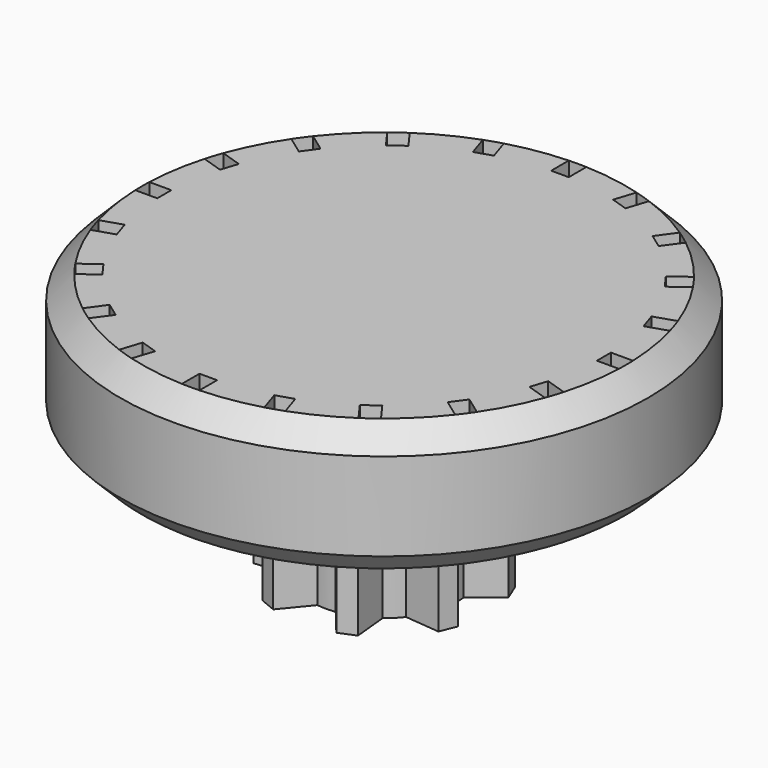
from build123d import *

# Parameters (mm, degrees)
F0_R     = 5
F1_DEPTH = 7.5
F2_R     = 30
F3_DEPTH = 15
F4_SIZE  = 2.5
F6_DEPTH = 25


with BuildPart() as f1:
    # F0 (on Top) → F1 (new body, symmetric)
    with BuildSketch(Plane.XY):
        with BuildLine():
            Line((-11.2727608123, 3.5869382136), (-8.1831376229, 1.0464208357))
            ThreePointArc((-8.1831376229, 1.0464208357), (-8.249771992, 0), (-8.1831376229, -1.0464208357))
            Line((-8.1831376229, -1.0464208357), (-11.2727608123, -3.5869382136))
            Line((-11.2727608123, -3.5869382136), (-10.5073939476, -5.4346972786))
            Line((-10.5073939476, -5.4346972786), (-6.5262833734, -5.0464208357))
            ThreePointArc((-6.5262833734, -5.0464208357), (-5.8334697188, -5.8334697188), (-5.0464208357, -6.5262833734))
            Line((-5.0464208357, -6.5262833734), (-5.4346972786, -10.5073939476))
            Line((-5.4346972786, -10.5073939476), (-3.5869382136, -11.2727608123))
            Line((-3.5869382136, -11.2727608123), (-1.0464208357, -8.1831376229))
            ThreePointArc((-1.0464208357, -8.1831376229), (0, -8.249771992), (1.0464208357, -8.1831376229))
            Line((1.0464208357, -8.1831376229), (3.5869382136, -11.2727608123))
            Line((3.5869382136, -11.2727608123), (5.4346972786, -10.5073939476))
            Line((5.4346972786, -10.5073939476), (5.0464208357, -6.5262833734))
            ThreePointArc((5.0464208357, -6.5262833734), (5.8334697188, -5.8334697188), (6.5262833734, -5.0464208357))
            Line((6.5262833734, -5.0464208357), (10.5073939476, -5.4346972786))
            Line((10.5073939476, -5.4346972786), (11.2727608123, -3.5869382136))
            Line((11.2727608123, -3.5869382136), (8.1831376229, -1.0464208357))
            ThreePointArc((8.1831376229, -1.0464208357), (8.249771992, 0), (8.1831376229, 1.0464208357))
            Line((8.1831376229, 1.0464208357), (11.2727608123, 3.5869382136))
            Line((11.2727608123, 3.5869382136), (10.5073939476, 5.4346972786))
            Line((10.5073939476, 5.4346972786), (6.5262833734, 5.0464208357))
            ThreePointArc((6.5262833734, 5.0464208357), (5.8334697188, 5.8334697188), (5.0464208357, 6.5262833734))
            Line((5.0464208357, 6.5262833734), (5.4346972786, 10.5073939476))
            Line((5.4346972786, 10.5073939476), (3.5869382136, 11.2727608123))
            Line((3.5869382136, 11.2727608123), (1.0464208357, 8.1831376229))
            ThreePointArc((1.0464208357, 8.1831376229), (0, 8.249771992), (-1.0464208357, 8.1831376229))
            Line((-1.0464208357, 8.1831376229), (-3.5869382136, 11.2727608123))
            Line((-3.5869382136, 11.2727608123), (-5.4346972786, 10.5073939476))
            Line((-5.4346972786, 10.5073939476), (-5.0464208357, 6.5262833734))
            ThreePointArc((-5.0464208357, 6.5262833734), (-5.8334697188, 5.8334697188), (-6.5262833734, 5.0464208357))
            Line((-6.5262833734, 5.0464208357), (-10.5073939476, 5.4346972786))
            Line((-10.5073939476, 5.4346972786), (-11.2727608123, 3.5869382136))
        make_face()
        Circle(F0_R, mode=Mode.SUBTRACT)
    extrude(amount=F1_DEPTH, both=True)

    # F2 (on face) → F3 (join)
    with BuildSketch(Plane.XY.offset(7.5)):
        Circle(F2_R)
    extrude(amount=F3_DEPTH)

    # F4
    f4_edges = [f1.edges().sort_by_distance(p)[0] for p in [
        (-30, 0, 22.5),
        (-30, 0, 7.5),
    ]]
    chamfer(f4_edges, length=F4_SIZE)

    # F5 (on face) → F6 (cut)
    with BuildSketch(Plane.XY.offset(22.5)):
        with BuildLine():
            Line((-1, 24.9818121673), (1, 24.9818121673))
            Line((1, 24.9818121673), (1, 27.4818121673))
            ThreePointArc((1, 27.4818121673), (0, 27.5), (-1, 27.4818121673))
            Line((-1, 27.4818121673), (-1, 24.9818121673))
        make_face()
        with BuildLine():
            ThreePointArc((-7.5412904796, 26.4457735357), (-8.4979673453, 26.1540541981), (-9.4434035122, 25.827739547))
            Line((-9.4434035122, 25.827739547), (-8.6708610263, 23.4500982562))
            Line((-8.6708610263, 23.4500982562), (-6.7687479937, 24.068132245))
            Line((-6.7687479937, 24.068132245), (-7.5412904796, 26.4457735357))
        make_face()
        with BuildLine():
            ThreePointArc((-15.3443869038, 22.8210383319), (-16.164094438, 22.2479673453), (-16.9624208926, 21.6454678273))
            Line((-16.9624208926, 21.6454678273), (-15.4929577619, 19.6229253414))
            Line((-15.4929577619, 19.6229253414), (-13.8749237731, 20.7984958459))
            Line((-13.8749237731, 20.7984958459), (-15.3443869038, 22.8210383319))
        make_face()
        with BuildLine():
            ThreePointArc((-21.6454678273, 16.9624208926), (-22.2479673453, 16.164094438), (-22.8210383319, 15.3443869038))
            Line((-22.8210383319, 15.3443869038), (-20.7984958459, 13.8749237731))
            Line((-20.7984958459, 13.8749237731), (-19.6229253414, 15.4929577619))
            Line((-19.6229253414, 15.4929577619), (-21.6454678273, 16.9624208926))
        make_face()
        with BuildLine():
            ThreePointArc((-25.827739547, 9.4434035122), (-26.1540541981, 8.4979673453), (-26.4457735357, 7.5412904796))
            Line((-26.4457735357, 7.5412904796), (-24.068132245, 6.7687479937))
            Line((-24.068132245, 6.7687479937), (-23.4500982562, 8.6708610263))
            Line((-23.4500982562, 8.6708610263), (-25.827739547, 9.4434035122))
        make_face()
        with BuildLine():
            ThreePointArc((-27.4818121673, 1), (-27.5, 0), (-27.4818121673, -1))
            Line((-27.4818121673, -1), (-24.9818121673, -1))
            Line((-24.9818121673, -1), (-24.9818121673, 1))
            Line((-24.9818121673, 1), (-27.4818121673, 1))
        make_face()
        with BuildLine():
            ThreePointArc((-26.4457735357, -7.5412904796), (-26.1540541981, -8.4979673453), (-25.827739547, -9.4434035122))
            Line((-25.827739547, -9.4434035122), (-23.4500982562, -8.6708610263))
            Line((-23.4500982562, -8.6708610263), (-24.068132245, -6.7687479937))
            Line((-24.068132245, -6.7687479937), (-26.4457735357, -7.5412904796))
        make_face()
        with BuildLine():
            ThreePointArc((-22.8210383319, -15.3443869038), (-22.2479673453, -16.164094438), (-21.6454678273, -16.9624208926))
            Line((-21.6454678273, -16.9624208926), (-19.6229253414, -15.4929577619))
            Line((-19.6229253414, -15.4929577619), (-20.7984958459, -13.8749237731))
            Line((-20.7984958459, -13.8749237731), (-22.8210383319, -15.3443869038))
        make_face()
        with BuildLine():
            ThreePointArc((-16.9624208926, -21.6454678273), (-16.164094438, -22.2479673453), (-15.3443869038, -22.8210383319))
            Line((-15.3443869038, -22.8210383319), (-13.8749237731, -20.7984958459))
            Line((-13.8749237731, -20.7984958459), (-15.4929577619, -19.6229253414))
            Line((-15.4929577619, -19.6229253414), (-16.9624208926, -21.6454678273))
        make_face()
        with BuildLine():
            ThreePointArc((-9.4434035122, -25.827739547), (-8.4979673453, -26.1540541981), (-7.5412904796, -26.4457735357))
            Line((-7.5412904796, -26.4457735357), (-6.7687479937, -24.068132245))
            Line((-6.7687479937, -24.068132245), (-8.6708610263, -23.4500982562))
            Line((-8.6708610263, -23.4500982562), (-9.4434035122, -25.827739547))
        make_face()
        with BuildLine():
            ThreePointArc((-1, -27.4818121673), (0, -27.5), (1, -27.4818121673))
            Line((1, -27.4818121673), (1, -24.9818121673))
            Line((1, -24.9818121673), (-1, -24.9818121673))
            Line((-1, -24.9818121673), (-1, -27.4818121673))
        make_face()
        with BuildLine():
            ThreePointArc((7.5412904796, -26.4457735357), (8.4979673453, -26.1540541981), (9.4434035122, -25.827739547))
            Line((9.4434035122, -25.827739547), (8.6708610263, -23.4500982562))
            Line((8.6708610263, -23.4500982562), (6.7687479937, -24.068132245))
            Line((6.7687479937, -24.068132245), (7.5412904796, -26.4457735357))
        make_face()
        with BuildLine():
            ThreePointArc((15.3443869038, -22.8210383319), (16.164094438, -22.2479673453), (16.9624208926, -21.6454678273))
            Line((16.9624208926, -21.6454678273), (15.4929577619, -19.6229253414))
            Line((15.4929577619, -19.6229253414), (13.8749237731, -20.7984958459))
            Line((13.8749237731, -20.7984958459), (15.3443869038, -22.8210383319))
        make_face()
        with BuildLine():
            ThreePointArc((21.6454678273, -16.9624208926), (22.2479673453, -16.164094438), (22.8210383319, -15.3443869038))
            Line((22.8210383319, -15.3443869038), (20.7984958459, -13.8749237731))
            Line((20.7984958459, -13.8749237731), (19.6229253414, -15.4929577619))
            Line((19.6229253414, -15.4929577619), (21.6454678273, -16.9624208926))
        make_face()
        with BuildLine():
            ThreePointArc((25.827739547, -9.4434035122), (26.1540541981, -8.4979673453), (26.4457735357, -7.5412904796))
            Line((26.4457735357, -7.5412904796), (24.068132245, -6.7687479937))
            Line((24.068132245, -6.7687479937), (23.4500982562, -8.6708610263))
            Line((23.4500982562, -8.6708610263), (25.827739547, -9.4434035122))
        make_face()
        with BuildLine():
            ThreePointArc((27.4818121673, -1), (27.5, 0), (27.4818121673, 1))
            Line((27.4818121673, 1), (24.9818121673, 1))
            Line((24.9818121673, 1), (24.9818121673, -1))
            Line((24.9818121673, -1), (27.4818121673, -1))
        make_face()
        with BuildLine():
            ThreePointArc((26.4457735357, 7.5412904796), (26.1540541981, 8.4979673453), (25.827739547, 9.4434035122))
            Line((25.827739547, 9.4434035122), (23.4500982562, 8.6708610263))
            Line((23.4500982562, 8.6708610263), (24.068132245, 6.7687479937))
            Line((24.068132245, 6.7687479937), (26.4457735357, 7.5412904796))
        make_face()
        with BuildLine():
            ThreePointArc((22.8210383319, 15.3443869038), (22.2479673453, 16.164094438), (21.6454678273, 16.9624208926))
            Line((21.6454678273, 16.9624208926), (19.6229253414, 15.4929577619))
            Line((19.6229253414, 15.4929577619), (20.7984958459, 13.8749237731))
            Line((20.7984958459, 13.8749237731), (22.8210383319, 15.3443869038))
        make_face()
        with BuildLine():
            ThreePointArc((16.9624208926, 21.6454678273), (16.164094438, 22.2479673453), (15.3443869038, 22.8210383319))
            Line((15.3443869038, 22.8210383319), (13.8749237731, 20.7984958459))
            Line((13.8749237731, 20.7984958459), (15.4929577619, 19.6229253414))
            Line((15.4929577619, 19.6229253414), (16.9624208926, 21.6454678273))
        make_face()
        with BuildLine():
            ThreePointArc((9.4434035122, 25.827739547), (8.4979673453, 26.1540541981), (7.5412904796, 26.4457735357))
            Line((7.5412904796, 26.4457735357), (6.7687479937, 24.068132245))
            Line((6.7687479937, 24.068132245), (8.6708610263, 23.4500982562))
            Line((8.6708610263, 23.4500982562), (9.4434035122, 25.827739547))
        make_face()
    extrude(amount=-F6_DEPTH, mode=Mode.SUBTRACT)


solid = f1.part
